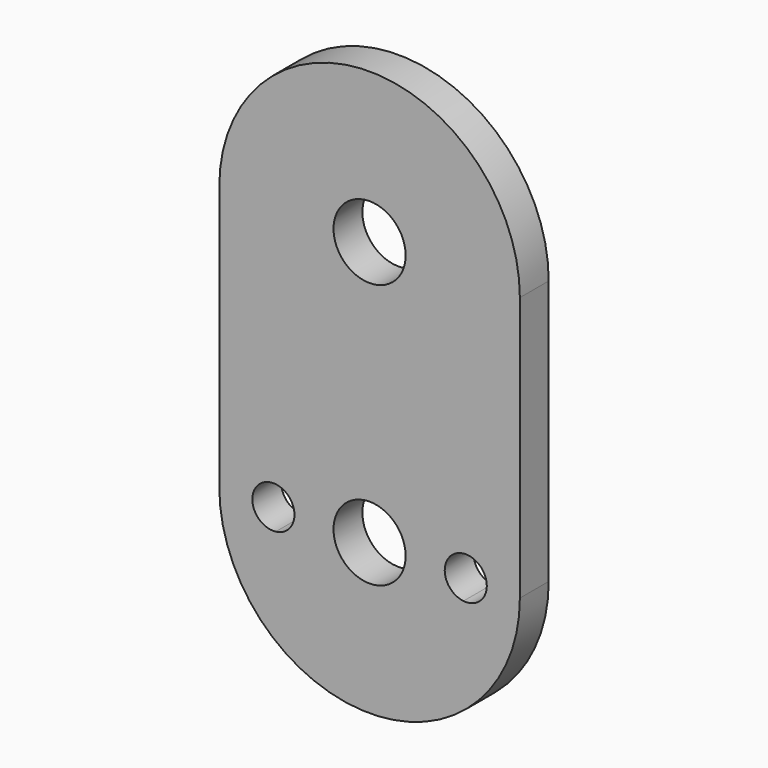
from build123d import *

# Parameters (mm, degrees)
F1_DEPTH = 3
F2_R     = 3
F3_DEPTH = 25
F6_DEPTH = 25
F8_DEPTH = 3


with BuildPart() as f1:
    # F0 (on Front) → F1 (new body)
    with BuildSketch(Plane.XZ):
        with BuildLine():
            ThreePointArc((5.9371710435, 0), (10.73463176, 4.595495259), (12.5, 11))
            ThreePointArc((12.5, 11), (0, 23.5), (-12.5, 11))
            ThreePointArc((-12.5, 11), (-10.73463176, 4.595495259), (-5.9371710435, 0))
            Line((-5.9371710435, 0), (5.9371710435, 0))
        make_face()
        with BuildLine():
            ThreePointArc((-5.9371710435, 0), (-10.73463176, 4.595495259), (-12.5, 11))
            Line((-12.5, 11), (-12.5, 0))
            Line((-12.5, 0), (-5.9371710435, 0))
        make_face()
    extrude(amount=F1_DEPTH)

    # F2 (on face) → F3 (cut)
    with BuildSketch(Plane.XZ.offset(3)):
        with Locations((0, 11)):
            Circle(F2_R)
    extrude(amount=-F3_DEPTH, mode=Mode.SUBTRACT)

    # F4: F1 across face


with BuildPart() as f1_1:
    add(f1.part)
    add(f1.part.mirror(Plane(origin=(-3.2814144782, -1.5, 0), x_dir=(1, 0, 0), z_dir=(0, 0, -1))))

    # F5 (on face) → F6 (cut)
    with BuildSketch(Plane.XZ.offset(3)):
        with BuildLine():
            ThreePointArc((-7.80859375, -12.7395009766), (-8, -11), (-7.80859375, -9.2604990234))
            ThreePointArc((-7.80859375, -9.2604990234), (-9.75, -11), (-7.80859375, -12.7395009766))
        make_face()
        with BuildLine():
            ThreePointArc((-6.25, -11), (-6.6966464529, -9.8321945662), (-7.80859375, -9.2604990234))
            ThreePointArc((-7.80859375, -9.2604990234), (-8, -11), (-7.80859375, -12.7395009766))
            ThreePointArc((-7.80859375, -12.7395009766), (-6.6966464529, -12.1678054338), (-6.25, -11))
        make_face()
        with BuildLine():
            ThreePointArc((7.80859375, -9.2604990234), (7.9520044643, -10.125), (8, -11))
            ThreePointArc((8, -11), (7.9520044643, -11.875), (7.80859375, -12.7395009766))
            ThreePointArc((7.80859375, -12.7395009766), (9.1678054338, -12.3033535471), (9.75, -11))
            ThreePointArc((9.75, -11), (9.1678054338, -9.6966464529), (7.80859375, -9.2604990234))
        make_face()
        with BuildLine():
            ThreePointArc((7.80859375, -12.7395009766), (7.9520044643, -11.875), (8, -11))
            ThreePointArc((8, -11), (7.9520044643, -10.125), (7.80859375, -9.2604990234))
            ThreePointArc((7.80859375, -9.2604990234), (6.25, -11), (7.80859375, -12.7395009766))
        make_face()
    extrude(amount=-F6_DEPTH, mode=Mode.SUBTRACT)

    # F7 (on face) → F8 (join)
    with BuildSketch(Plane.XZ.offset(3)):
        with BuildLine():
            Line((12.5, -11), (12.5, 11))
            ThreePointArc((12.5, 11), (10.73463176, 4.595495259), (5.9371710435, 0))
            ThreePointArc((5.9371710435, 0), (10.73463176, -4.595495259), (12.5, -11))
        make_face()
    extrude(amount=-F8_DEPTH)


solid = f1_1.part
